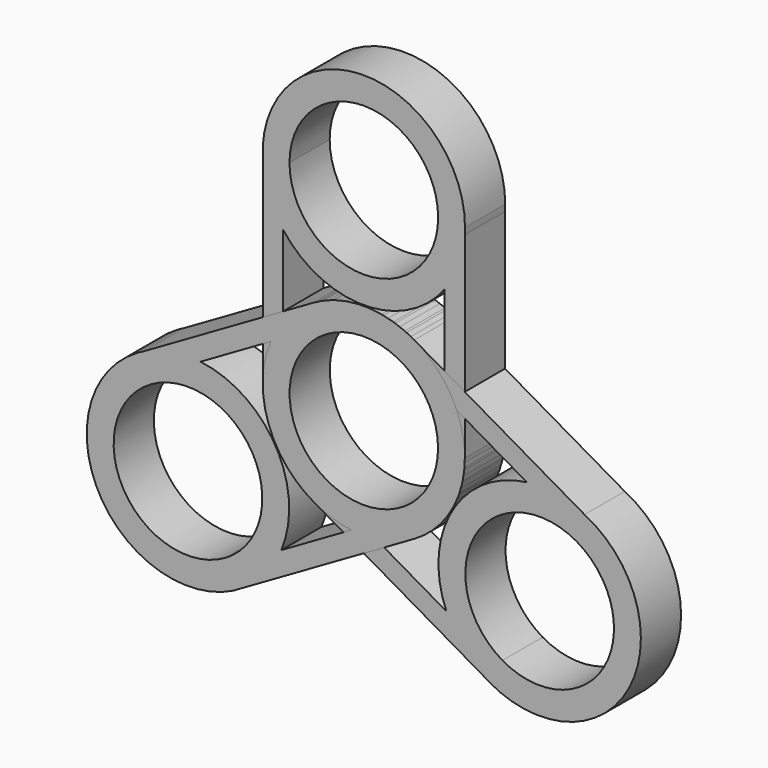
from build123d import *

# Parameters (mm, degrees)
F1_DEPTH = 7.5
F2_ANGLE = 120
F3_ANGLE = 120


with BuildPart() as f1:
    # F0 (on Front) → F1 (new body)
    with BuildSketch(Plane.XZ):
        with BuildLine():
            Line((-15.0735694915, 14.1837751136), (-15.0735694915, 15.1491072029))
            Line((-15.0735694915, 15.1491072029), (-12.0263407007, 15.1491072029))
            Line((-12.0263407007, 15.1491072029), (-11.0889283656, 15.1491072029))
            ThreePointArc((-11.0889283656, 15.1491072029), (0, 26.2380355684), (11.0889283656, 15.1491072029))
            Line((11.0889283656, 15.1491072029), (12.0413182303, 15.1491072029))
            Line((12.0413182303, 15.1491072029), (15.0735694915, 15.1491072029))
            Line((15.0735694915, 15.1491072029), (15.0735694915, 14.1837751136))
            ThreePointArc((15.0735694915, 14.1837751136), (15.0967267436, 14.6661942829), (15.1044484592, 15.1491072029))
            ThreePointArc((15.1044484592, 15.1491072029), (-0.48291292, 30.2458339464), (-15.0735694915, 14.1837751136))
        make_face()
        with BuildLine():
            ThreePointArc((-12.0263407007, 6.0106449357), (-14.1527840841, 9.8724542936), (-15.0735694915, 14.1837751136))
            Line((-15.0735694915, 14.1837751136), (-15.0735694915, 0))
            Line((-15.0735694915, 0), (-12.0263407007, 0))
            Line((-12.0263407007, 0), (-12.0263407007, 6.0106449357))
        make_face()
        with BuildLine():
            Line((-12.0263407007, 0), (-15.0735694915, 0))
            Line((-15.0735694915, 0), (-15.0735694915, -15.1491072029))
            ThreePointArc((-15.0735694915, -15.1491072029), (-14.2914726235, -10.3567896563), (-12.0263407007, -6.0617738995))
            Line((-12.0263407007, -6.0617738995), (-12.0263407007, 0))
        make_face()
        with BuildLine():
            ThreePointArc((12.0413182303, -6.081629467), (0.0124355333, -0.075542841), (-12.0263407007, -6.0617738995))
            Line((-12.0263407007, -6.0617738995), (-12.0263407007, -15.1491072029))
            Line((-12.0263407007, -15.1491072029), (-11.0765690757, -15.1491072029))
            ThreePointArc((-11.0765690757, -15.1491072029), (0, -4.0725381272), (11.0765690757, -15.1491072029))
            Line((11.0765690757, -15.1491072029), (12.0413182303, -15.1491072029))
            Line((12.0413182303, -15.1491072029), (12.0413182303, -6.081629467))
        make_face()
        with BuildLine():
            ThreePointArc((-12.0263407007, -6.0617738995), (-14.2914726235, -10.3567896563), (-15.0735694915, -15.1491072029))
            Line((-15.0735694915, -15.1491072029), (-12.0263407007, -15.1491072029))
            Line((-12.0263407007, -15.1491072029), (-12.0263407007, -6.0617738995))
        make_face()
        with BuildLine():
            Line((-12.0263407007, -15.1491072029), (-15.0735694915, -15.1491072029))
            ThreePointArc((-15.0735694915, -15.1491072029), (0, -30.2226766944), (15.0735694915, -15.1491072029))
            Line((15.0735694915, -15.1491072029), (12.0413182303, -15.1491072029))
            Line((12.0413182303, -15.1491072029), (11.0765690757, -15.1491072029))
            ThreePointArc((11.0765690757, -15.1491072029), (0, -26.2256762786), (-11.0765690757, -15.1491072029))
            Line((-11.0765690757, -15.1491072029), (-12.0263407007, -15.1491072029))
        make_face()
        with BuildLine():
            Line((12.0413182303, -15.1491072029), (15.0735694915, -15.1491072029))
            ThreePointArc((15.0735694915, -15.1491072029), (14.2954213707, -10.3685815989), (12.0413182303, -6.081629467))
            Line((12.0413182303, -6.081629467), (12.0413182303, -15.1491072029))
        make_face()
        with BuildLine():
            Line((15.0735694915, 0), (12.0413182303, 0))
            Line((12.0413182303, 0), (12.0413182303, -6.081629467))
            ThreePointArc((12.0413182303, -6.081629467), (14.2954213707, -10.3685815989), (15.0735694915, -15.1491072029))
            Line((15.0735694915, -15.1491072029), (15.0735694915, 0))
        make_face()
        with BuildLine():
            ThreePointArc((15.0735694915, 14.1837751136), (14.1571080953, 9.8840664969), (12.0413182303, 6.0303891716))
            Line((12.0413182303, 6.0303891716), (12.0413182303, 0))
            Line((12.0413182303, 0), (15.0735694915, 0))
            Line((15.0735694915, 0), (15.0735694915, 14.1837751136))
        make_face()
        with BuildLine():
            Line((12.0413182303, 15.1491072029), (12.0413182303, 6.0303891716))
            ThreePointArc((12.0413182303, 6.0303891716), (14.1571080953, 9.8840664969), (15.0735694915, 14.1837751136))
            Line((15.0735694915, 14.1837751136), (15.0735694915, 15.1491072029))
            Line((15.0735694915, 15.1491072029), (12.0413182303, 15.1491072029))
        make_face()
        with BuildLine():
            Line((-11.0889283656, 15.1491072029), (-12.0263407007, 15.1491072029))
            Line((-12.0263407007, 15.1491072029), (-12.0263407007, 6.0106449357))
            ThreePointArc((-12.0263407007, 6.0106449357), (0.0123911384, 0.0446638263), (12.0413182303, 6.0303891716))
            Line((12.0413182303, 6.0303891716), (12.0413182303, 15.1491072029))
            Line((12.0413182303, 15.1491072029), (11.0889283656, 15.1491072029))
            ThreePointArc((11.0889283656, 15.1491072029), (0, 4.0601788373), (-11.0889283656, 15.1491072029))
        make_face()
        with BuildLine():
            Line((-12.0263407007, 15.1491072029), (-15.0735694915, 15.1491072029))
            Line((-15.0735694915, 15.1491072029), (-15.0735694915, 14.1837751136))
            ThreePointArc((-15.0735694915, 14.1837751136), (-14.1527840841, 9.8724542936), (-12.0263407007, 6.0106449357))
            Line((-12.0263407007, 6.0106449357), (-12.0263407007, 15.1491072029))
        make_face()
    extrude(amount=F1_DEPTH)


with BuildPart() as f2_1:
    # F2: copy of F1
    add(f1.part.rotate(Axis((0, -7.5, -15.1491072029), (0, 1, 0)), F2_ANGLE))


with BuildPart() as f3_1:
    # F3: copy of F2_1
    add(f2_1.part.rotate(Axis((0, -7.5, -15.1491072029), (0, 1, 0)), F3_ANGLE))


solid = Compound([f1.part, f2_1.part, f3_1.part])
